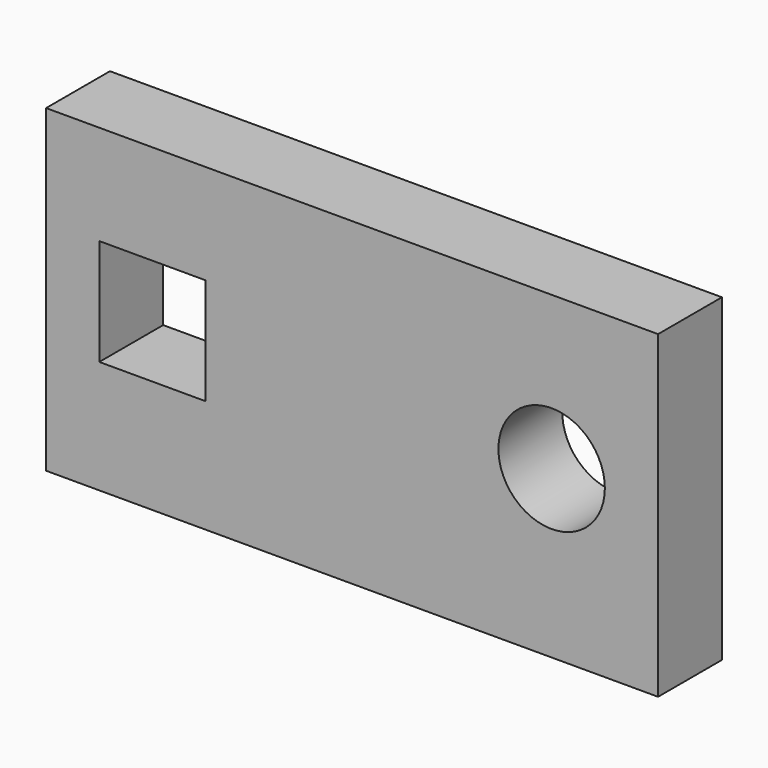
from build123d import *

# Parameters (mm, degrees)
F0_W      = 146.05
F0_H      = 76.2
F3_DEPTH  = 19.05
F1_W      = 25.4
F1_H      = 25.4
F4_DEPTH  = 25.4
F4_FACE_W = 25.4
F4_FACE_H = 25.4
F5_DEPTH  = 38.1
F2_R      = 12.7
F6_DEPTH  = 25.4
F6_FACE_R = 12.7
F7_DEPTH  = 25.4


with BuildPart() as f3:
    # F0 (on Front) → F3 (new body)
    with BuildSketch(Plane.XZ):
        with Locations((12.683325, 54.713055)):
            Rectangle(F0_W, F0_H)
    extrude(amount=F3_DEPTH)

    # F1 (on face) → F4 (join)
    with BuildSketch(Plane.XZ):
        with Locations((-34.941675, 56.300555)):
            Rectangle(F1_W, F1_H)
    extrude(amount=F4_DEPTH)

    # F4_face (on face) → F5 (cut)
    with BuildSketch(Plane(origin=(-34.941675, -25.4, 56.300555), x_dir=(1, 0, 0), z_dir=(0, -1, 0))):
        Rectangle(F4_FACE_W, F4_FACE_H)
    extrude(amount=-F5_DEPTH, mode=Mode.SUBTRACT)

    # F2 (on face) → F6 (join)
    with BuildSketch(Plane.XZ):
        with Locations((60.308325, 56.300555)):
            Circle(F2_R)
    extrude(amount=F6_DEPTH)

    # F6_face (on face) → F7 (cut)
    with BuildSketch(Plane(origin=(60.308325, -25.4, 56.300555), x_dir=(1, 0, 0), z_dir=(0, -1, 0))):
        Circle(F6_FACE_R)
    extrude(amount=-F7_DEPTH, mode=Mode.SUBTRACT)


solid = f3.part
